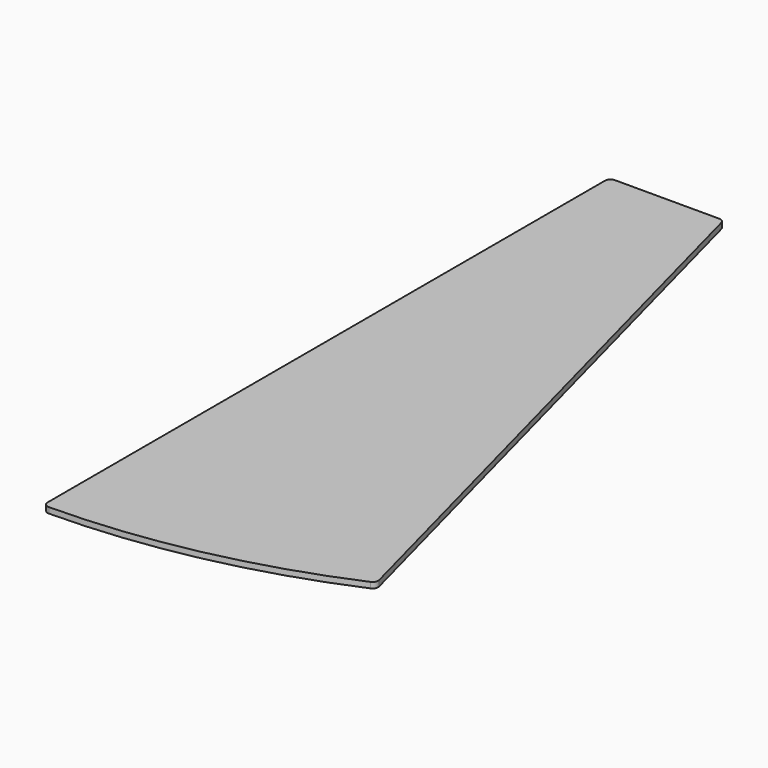
from build123d import *

# Parameters (mm, degrees)
F1_DEPTH = 5


with BuildPart() as f1:
    # F0 (on Top) → F1 (new body)
    with BuildSketch(Plane.XY):
        with BuildLine():
            ThreePointArc((5, 0), (1.464466, -1.464466), (0, -5))
            Line((0, -5), (0, -614.979674))
            ThreePointArc((0, -614.979674), (1.478868, -618.529551), (5.04065, -619.979509))
            ThreePointArc((5.04065, -619.979509), (128.100613, -606.621985), (246.054486, -569.084519))
            ThreePointArc((246.054486, -569.084519), (248.567798, -566.67948), (248.90409, -563.217131))
            Line((248.90409, -563.217131), (100.984028, -3.722003))
            ThreePointArc((100.984028, -3.722003), (99.200525, -1.03831), (96.150114, 0))
            Line((96.150114, 0), (5, 0))
        make_face()
    extrude(amount=F1_DEPTH)


solid = f1.part
